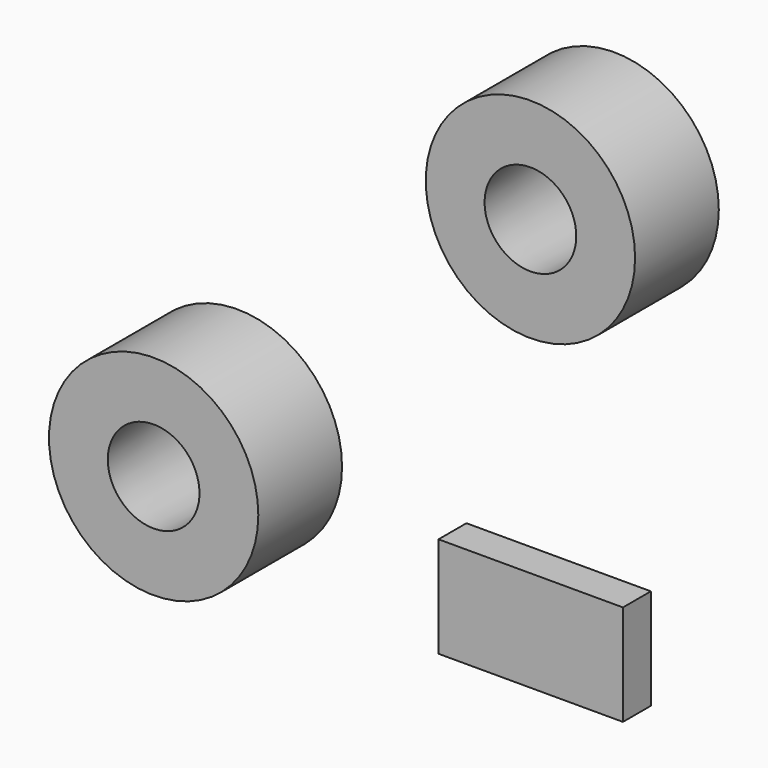
from build123d import *

# Parameters (mm, degrees)
F0_R     = 76.2
F1_DEPTH = 76.2
F2_R     = 38.1
F3_DEPTH = 76.201
F3_TAPER = 3.54
F5_W     = 134.266346693
F5_H     = 73.3835399151
F6_DEPTH = 25.4


with BuildPart() as f1:
    # F0 (on Front) → F1 (new body)
    with BuildSketch(Plane.XZ):
        Circle(F0_R)
    extrude(amount=F1_DEPTH)

    # F2 (on face) → F3 (cut, through all)
    with BuildSketch(Plane(origin=(0, 0, 0), x_dir=(-1, 0, 0), z_dir=(0, 1, 0))):
        Circle(F2_R)
    extrude(amount=-F3_DEPTH, taper=F3_TAPER, mode=Mode.SUBTRACT)


with BuildPart() as f4_1:
    # F4: copy of F1
    add(f1.part.moved(Location((152.4, 152.4, 152.4))))


with BuildPart() as f6:
    # F5 (on Front) → F6 (new body)
    with BuildSketch(Plane.XZ):
        with Locations((233.9055091143, -43.3989912271)):
            Rectangle(F5_W, F5_H)
    extrude(amount=F6_DEPTH)


solid = Compound([f1.part, f4_1.part, f6.part])
